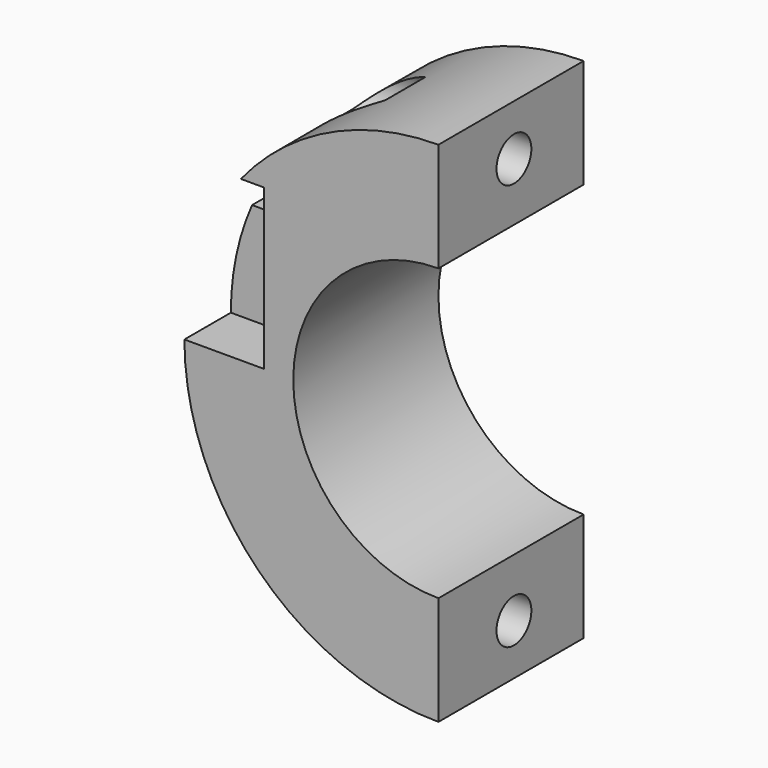
from build123d import *

# Parameters (mm, degrees)
F1_DEPTH  = 25
F2_R      = 3
F3_DEPTH  = 25
F5_R      = 5
F6_DEPTH  = 5
F8_DEPTH  = 28.5
F9_W      = 8
F9_H      = 14
F10_DEPTH = 25


with BuildPart() as f1:
    # F0 (on Front) → F1 (new body)
    with BuildSketch(Plane.XZ):
        with BuildLine():
            Line((0, 20), (0, 35))
            ThreePointArc((0, 35), (-35, 0), (0, -35))
            Line((0, -35), (0, -20))
            ThreePointArc((0, -20), (-20, 0), (0, 20))
        make_face()
    extrude(amount=F1_DEPTH)

    # F2 (on Right) → F3 (cut)
    with BuildSketch(Plane.YZ):
        with Locations((-12, 28)):
            Circle(F2_R)
        with Locations((-12, -28)):
            Circle(F2_R)
    extrude(amount=-F3_DEPTH, mode=Mode.SUBTRACT)

    # F5 (on offset) → F6 (cut, symmetric)
    with BuildSketch(Plane.YZ.offset(-20)):
        with Locations((-12, 28)):
            Circle(F5_R)
        with Locations((-12, -28)):
            Circle(F5_R)
    extrude(amount=F6_DEPTH, both=True, mode=Mode.SUBTRACT)

    # F7 (on Front) → F8 (cut)
    with BuildSketch(Plane.XZ):
        Polygon((-30, 0), (-24, 0), (-24, 14), (-24, 22), (-30, 22), (-44, 22), (-44, 14), (-30, 14), align=None)
    extrude(amount=F8_DEPTH, mode=Mode.SUBTRACT)

    # F9 (on face) → F10 (cut)
    with BuildSketch(Plane(origin=(-24, 0, 0), x_dir=(0, -1, 0), z_dir=(-1, 0, 0))):
        with Locations((4, 7)):
            Rectangle(F9_W, F9_H)
        with Locations((21, 7)):
            Rectangle(F9_W, F9_H)
    extrude(amount=F10_DEPTH, mode=Mode.SUBTRACT)


solid = f1.part
